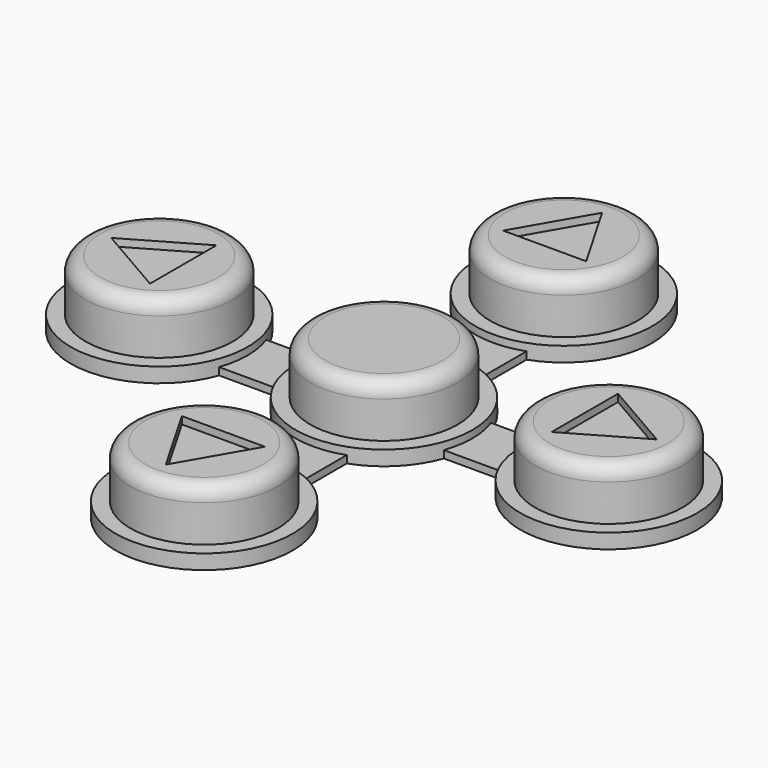
from build123d import *

# Parameters (mm, degrees)
CYLINDER_R             = 5
CYLINDER_DEPTH         = 4.5
FILLET_R               = 1
CYLINDER001_R          = 6
CYLINDER001_DEPTH      = 1
BOX001_W               = 30.48
BOX001_H               = 4
BOX001_DEPTH           = 0.5
BOX001_PLACEMENT_ANGLE = 90
BOX_W                  = 30.48
BOX_H                  = 4
BOX_DEPTH              = 0.5
POCKET_DEPTH           = 0.5
ARRAY_COUNT            = 4


with BuildPart() as button_body_fillet:
    # Cylinder → Cylinder (new body)
    with BuildSketch(Plane.XY.offset(8)):
        Circle(CYLINDER_R)
    extrude(amount=CYLINDER_DEPTH)

    # Fillet
    fillet_edges = [button_body_fillet.edges().sort_by_distance(p)[0] for p in [
        (-5, 0, 12.5),
    ]]
    fillet(fillet_edges, radius=FILLET_R)


with BuildPart() as button_fusion:
    # Cylinder001 → Cylinder001 (new body)
    with BuildSketch(Plane.XY.offset(8)):
        Circle(CYLINDER001_R)
    extrude(amount=CYLINDER001_DEPTH)

    # Fusion: union button-body-fillet
    add(button_body_fillet.part)


with BuildPart() as buttons_forward_backward_union_cube:
    # Box001 → Box001 (new body)
    with BuildSketch(Plane.XY):
        with Locations((15.24, 2)):
            Rectangle(BOX001_W, BOX001_H)
    extrude(amount=BOX001_DEPTH)


with BuildPart() as buttons_forward_backward_union_cube_1:
    # Box001 placement: moved
    add(buttons_forward_backward_union_cube.part.moved(Location((2, -15.24, 8))).rotate(Axis((2, -15.24, 8), (0, 0, 1)), BOX001_PLACEMENT_ANGLE))


with BuildPart() as buttons_left_right_union_cube:
    # Box → Box (new body)
    with BuildSketch(Plane(origin=(-15.24, -2, 8), x_dir=(1, 0, 0), z_dir=(0, 0, 1))):
        with Locations((15.24, 2)):
            Rectangle(BOX_W, BOX_H)
    extrude(amount=BOX_DEPTH)


with BuildPart() as buttons_fusion:
    # Clone base: copy of button-fusion
    add(button_fusion.part)


with BuildPart() as buttons_fusion_1:
    # Clone placement: moved
    add(buttons_fusion.part.moved(Location((15.24, 0, 0))))

    # Sketch → Pocket (cut)
    with BuildSketch(Plane(origin=(15.24, 0, 12.5), x_dir=(1, 0, 0), z_dir=(0, 0, 1))):
        Polygon((-1.625, 2.814583), (-1.625, -2.814583), (3.25, 0), align=None)
    extrude(amount=-POCKET_DEPTH, mode=Mode.SUBTRACT)

    # Array: buttons-fusion ×4 about axis
    array_axis = Axis((0, 0, 0), (0, 0, 1))


with BuildPart() as buttons_fusion_2:
    add(buttons_fusion_1.part)
    for i in range(1, ARRAY_COUNT):
        add(buttons_fusion_1.part.rotate(array_axis, i * 360 / ARRAY_COUNT))

    # Fusion001: union button-fusion, buttons-forward-backward-union-cube, buttons-left-right-union-cube
    add(button_fusion.part)
    add(buttons_forward_backward_union_cube_1.part)
    add(buttons_left_right_union_cube.part)


solid = buttons_fusion_2.part
